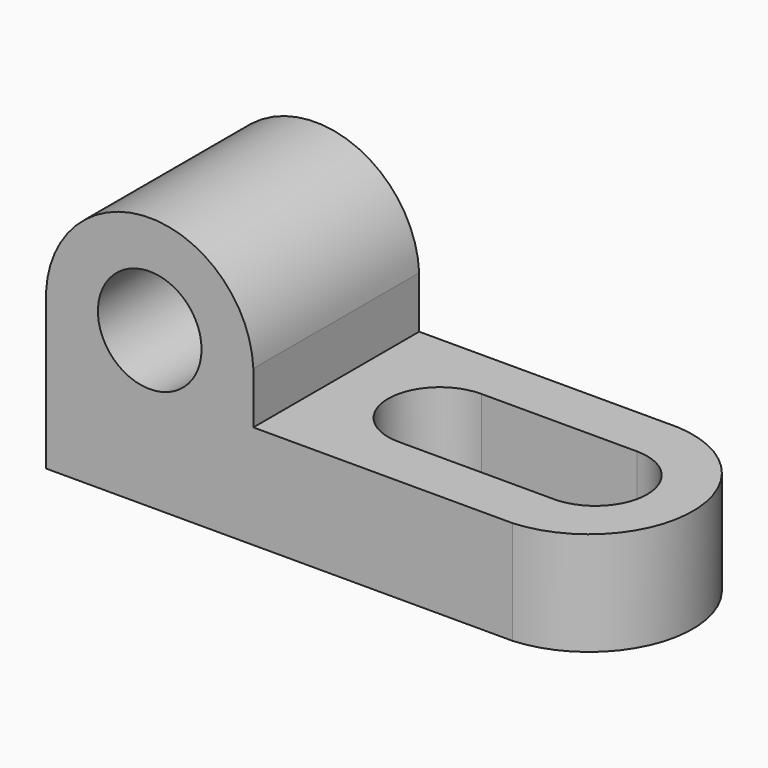
from build123d import *

# Parameters (mm, degrees)
F1_DEPTH = 25.4
F2_R     = 6.35
F3_DEPTH = 25.4
F5_DEPTH = 25.4


with BuildPart() as f1:
    # F0 (on Front) → F1 (new body)
    with BuildSketch(Plane.XZ):
        Polygon((0, 31.75), (0, 0), (69.85, 0), (69.85, 12.7), (25.4, 12.7), (25.4, 31.75), align=None)
    extrude(amount=F1_DEPTH)

    # F2 (on face) → F3 (cut)
    with BuildSketch(Plane.XZ.offset(25.4)):
        with BuildLine():
            ThreePointArc((0, 19.05), (12.7, 31.182884), (25.4, 19.05))
            Line((25.4, 19.05), (25.4, 31.75))
            Line((25.4, 31.75), (0, 31.75))
            Line((0, 31.75), (0, 19.05))
        make_face()
        with Locations((12.7, 19.05)):
            Circle(F2_R)
    extrude(amount=-F3_DEPTH, mode=Mode.SUBTRACT)

    # F4 (on face) → F5 (cut)
    with BuildSketch(Plane.XY.offset(12.7)):
        with BuildLine():
            ThreePointArc((38.1, -19.05), (42.590128, -17.190128), (44.45, -12.7))
            ThreePointArc((44.45, -12.7), (42.590128, -8.209872), (38.1, -6.35))
            ThreePointArc((38.1, -6.35), (31.75, -12.7), (38.1, -19.05))
        make_face()
        with BuildLine():
            ThreePointArc((38.1, -6.35), (42.590128, -8.209872), (44.45, -12.7))
            ThreePointArc((44.45, -12.7), (42.590128, -17.190128), (38.1, -19.05))
            Line((38.1, -19.05), (57.15, -19.05))
            ThreePointArc((57.15, -19.05), (50.8, -12.7), (57.15, -6.35))
            Line((57.15, -6.35), (38.1, -6.35))
        make_face()
        with BuildLine():
            ThreePointArc((63.5, -12.7), (61.640128, -8.209872), (57.15, -6.35))
            ThreePointArc((57.15, -6.35), (50.8, -12.7), (57.15, -19.05))
            ThreePointArc((57.15, -19.05), (61.640128, -17.190128), (63.5, -12.7))
        make_face()
        with BuildLine():
            ThreePointArc((57.15, 0), (69.088758, -12.7), (57.15, -25.4))
            Line((57.15, -25.4), (69.85, -25.4))
            Line((69.85, -25.4), (69.85, 0))
            Line((69.85, 0), (57.15, 0))
        make_face()
    extrude(amount=-F5_DEPTH, mode=Mode.SUBTRACT)


solid = f1.part
